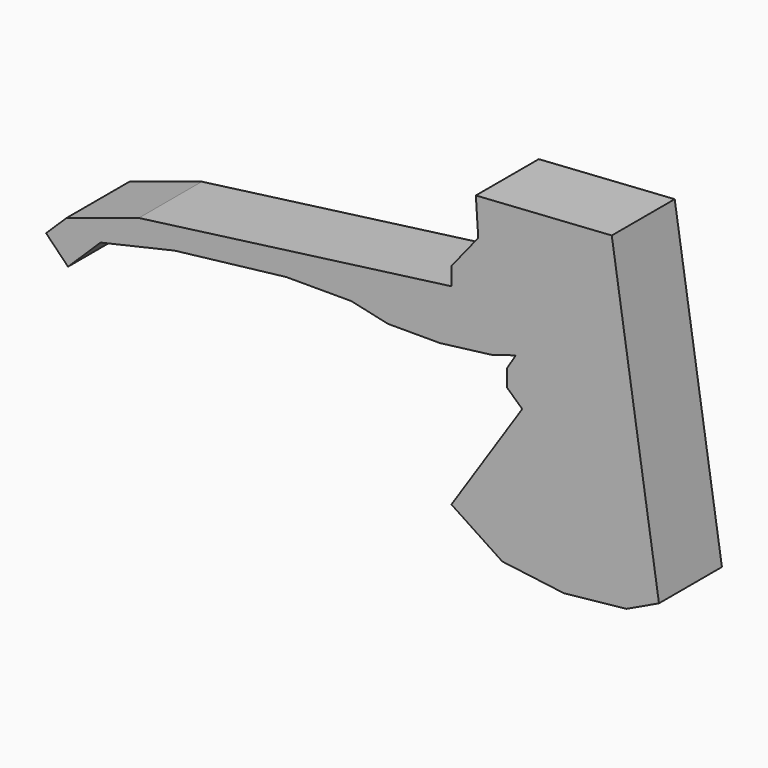
from build123d import *

# Parameters (mm, degrees)
F1_DEPTH = 12.7


with BuildPart() as f1:
    # F0 (on Front) → F1 (new body, symmetric)
    with BuildSketch(Plane.XZ):
        Polygon((8.145518, 27.45554), (-92.753798, 14.05485), (-116.139315, 6.43485), (-122.708283, 0), (-115.623354, -7.232597), (-105.132949, 3.043626), (-81.192411, 8.536919), (-45.194484, 12.741056), (-24.173792, 12.741056), (-12.349655, 10.113471), (4.466896, 10.113471), (21.28345, 12.215539), (28.903447, 14.580367), (26.013102, 9.850712), (26.013102, 4.59554), (31.00552, 0), (8.145518, -34.555495), (24.561172, -45.415183), (44.406205, -47.956187), (64.638622, -45.854114), (75.14897, -40.861703), (59.908967, 58.723815), (16.028276, 55.83347), (16.807152, 44.008712), (8.145518, 33.236232), align=None)
    extrude(amount=F1_DEPTH, both=True)


solid = f1.part
